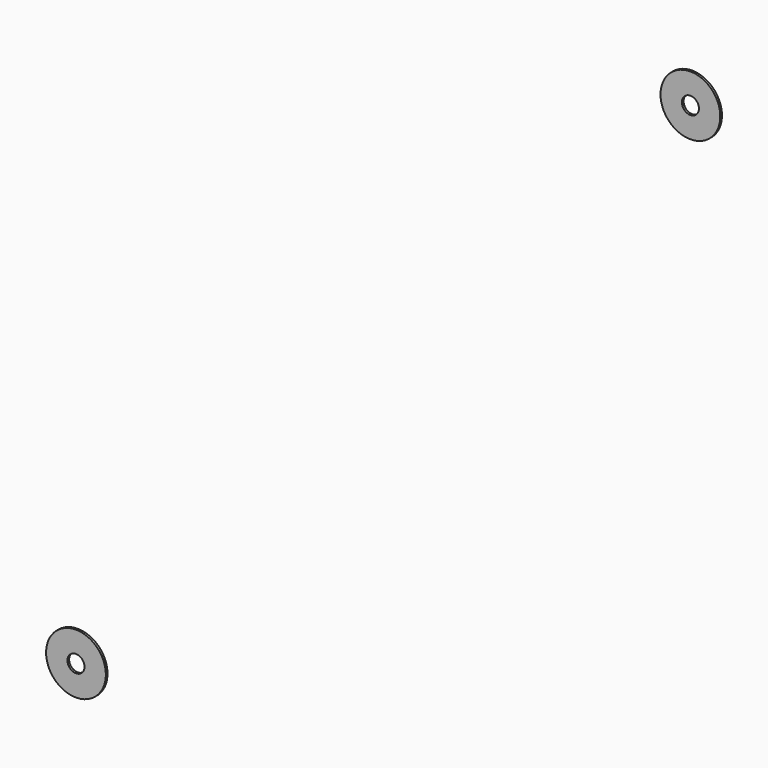
from build123d import *

# Parameters (mm, degrees)
F15_R     = 88.9
F15_R_2   = 25.4
F16_DEPTH = 6.35


with BuildPart() as f16:
    # F15 (on 3pt) → F16 (new body)
    with BuildSketch(Plane(origin=(0, -291.0444789136, 0), x_dir=(-1, 0, 0), z_dir=(0, 1, 0))):
        with Locations((-1414.5427417788, 2057.4)):
            Circle(F15_R)
        with Locations((-1414.5427417788, 2057.4)):
            Circle(F15_R_2, mode=Mode.SUBTRACT)
    extrude(amount=F16_DEPTH)


with BuildPart() as f16b:
    # F15 (on 3pt) → F16, piece 2 (new body)
    with BuildSketch(Plane(origin=(0, -291.0444789136, 0), x_dir=(-1, 0, 0), z_dir=(0, 1, 0))):
        with Locations((414.2572582212, 0)):
            Circle(F15_R)
        with Locations((414.2572582212, 0)):
            Circle(F15_R_2, mode=Mode.SUBTRACT)
    extrude(amount=F16_DEPTH)


solid = Compound([f16.part, f16b.part])
